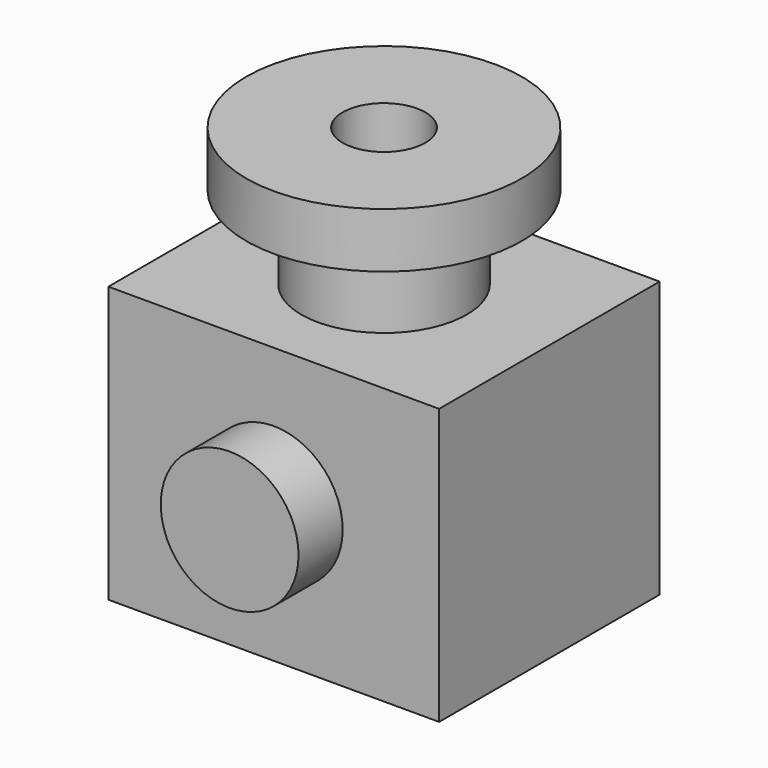
from build123d import *

# Parameters (mm, degrees)
F0_W          = 60
F0_H          = 50
F1_DEPTH      = 25
F1_DEPTH_BACK = 25
F4_R          = 7.5
F5_DEPTH      = 75.001
F6_R          = 12.5
F7_DEPTH      = 35
F7_DEPTH_BACK = 35


with BuildPart() as f1:
    # F0 (on Top) → F1 (new body, two sides)
    with BuildSketch(Plane.XY) as f1_sk:
        Rectangle(F0_W, F0_H)
    extrude(amount=F1_DEPTH)
    extrude(f1_sk.sketch, amount=-F1_DEPTH_BACK)

    # F2 (on Front) → F3 (revolve)
    with BuildSketch(Plane.XZ):
        Polygon((-15, 40), (-15, 25), (0, 25), (0, 50), (-25, 50), (-25, 40), align=None)
    revolve(axis=Axis((0, 0, 37.5), (0, 0, -1)))

    # F4 (on face) → F5 (cut, through all)
    with BuildSketch(Plane.XY.offset(50)):
        Circle(F4_R)
    extrude(amount=-F5_DEPTH, mode=Mode.SUBTRACT)

    # F6 (on Front) → F7 (join, two sides)
    with BuildSketch(Plane.XZ) as f7_sk:
        Circle(F6_R)
    extrude(amount=F7_DEPTH)
    extrude(f7_sk.sketch, amount=-F7_DEPTH_BACK)


solid = f1.part
